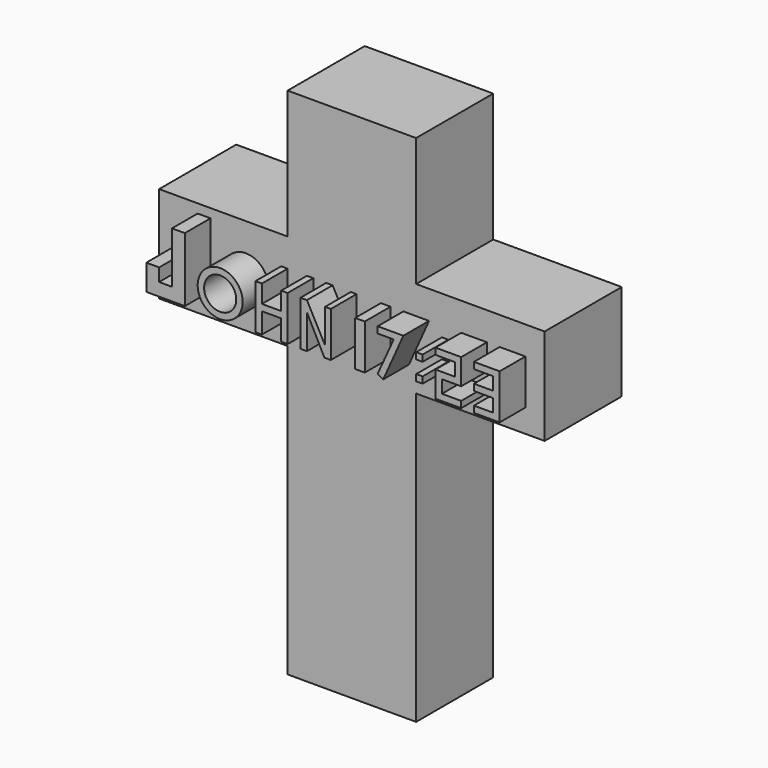
from build123d import *

# Parameters (mm, degrees)
F0_W      = 25.4
F0_H      = 19.05
F1_DEPTH  = 19.05
F4_DEPTH  = 6.35
F5_R      = 4.445
F5_R_2    = 3.175
F6_DEPTH  = 6.35
F7_W      = 3.81
F7_H      = 1.27
F8_DEPTH  = 6.35
F10_DEPTH = 6.35
F11_W     = 1.905
F11_H     = 8.89
F12_DEPTH = 6.35
F14_DEPTH = 6.35
F15_W     = 1.27
F15_H     = 1.27
F16_DEPTH = 6.35
F18_DEPTH = 6.35
F19_W     = 3.81
F19_H     = 1.27
F20_DEPTH = 6.35


with BuildPart() as f1:
    # F0 (on Front) → F1 (new body)
    with BuildSketch(Plane.XZ):
        Polygon((-25.4, 0), (0, 0), (0, 57.15), (0, 76.2), (0, 101.6), (-25.4, 101.6), (-25.4, 76.2), (-25.4, 57.15), align=None)
        with Locations((12.7, 66.675)):
            Rectangle(F0_W, F0_H)
        with Locations((-38.1, 66.675)):
            Rectangle(F0_W, F0_H)
    extrude(amount=F1_DEPTH)

    # F3 (on offset) → F4 (join)
    with BuildSketch(Plane.XZ.offset(19.05)):
        Polygon((-45.72, 66.802), (-48.26, 66.802), (-48.26, 61.722), (-40.64, 61.722), (-40.64, 74.422), (-43.18, 74.422), (-43.18, 64.262), (-45.72, 64.262), align=None)
    extrude(amount=F4_DEPTH)

    # F5 (on offset) → F6 (join)
    with BuildSketch(Plane.XZ.offset(19.05)):
        with Locations((-33.655, 66.167)):
            Circle(F5_R)
        with Locations((-33.655, 66.167)):
            Circle(F5_R_2, mode=Mode.SUBTRACT)
    extrude(amount=F6_DEPTH)

    # F7 (on offset) → F8 (join)
    with BuildSketch(Plane.XZ.offset(19.05)):
        Polygon((-25.4, 70.612), (-26.67, 70.612), (-26.67, 61.722), (-25.4, 61.722), (-25.4, 65.786055), (-25.4, 67.056055), align=None)
        with Locations((-23.495, 66.421055)):
            Rectangle(F7_W, F7_H)
        Polygon((-21.59, 70.612), (-21.59, 67.056055), (-21.59, 65.786055), (-21.59, 61.722), (-20.32, 61.722), (-20.32, 70.612), align=None)
    extrude(amount=F8_DEPTH)

    # F9 (on offset) → F10 (join)
    with BuildSketch(Plane.XZ.offset(19.05)):
        Polygon((-17.78, 70.612), (-17.78, 61.722), (-16.51, 61.722), (-16.51, 68.510335), (-16.51, 70.612), align=None)
        Polygon((-12.917591, 63.891956), (-16.51, 70.612), (-16.51, 68.510335), (-13.048367, 61.722), (-12.917591, 61.722), align=None)
        Polygon((-12.917591, 70.612), (-12.917591, 63.891956), (-12.917591, 61.722), (-11.778367, 61.722), (-11.778367, 70.612), align=None)
    extrude(amount=F10_DEPTH)

    # F11 (on offset) → F12 (join)
    with BuildSketch(Plane.XZ.offset(19.05)):
        with Locations((-6.016459, 66.167)):
            Rectangle(F11_W, F11_H)
    extrude(amount=F12_DEPTH)

    # F13 (on offset) → F14 (join)
    with BuildSketch(Plane.XZ.offset(19.05)):
        Polygon((2.556041, 70.612), (-2.523959, 70.612), (-2.523959, 69.342), (0.651041, 69.342), (-2.523959, 62.344633), (-1.417059, 61.722), align=None)
    extrude(amount=F14_DEPTH)

    # F15 (on offset) → F16 (join)
    with BuildSketch(Plane.XZ.offset(19.05)):
        with Locations((5.731041, 67.945)):
            Rectangle(F15_W, F15_H)
        with Locations((5.731041, 64.135)):
            Rectangle(F15_W, F15_H)
    extrude(amount=F16_DEPTH)

    # F17 (on offset) → F18 (join)
    with BuildSketch(Plane.XZ.offset(19.05)):
        Polygon((13.986041, 70.612), (8.906041, 70.612), (8.906041, 69.342), (12.716041, 69.342), (12.716041, 66.802), (13.986041, 66.802), align=None)
        Polygon((13.986041, 65.532), (13.986041, 66.802), (12.716041, 66.802), (8.906041, 66.802), (8.906041, 61.722), (13.986041, 61.722), (13.986041, 62.992), (10.176041, 62.992), (10.176041, 65.532), align=None)
    extrude(amount=F18_DEPTH)

    # F19 (on offset) → F20 (join)
    with BuildSketch(Plane.XZ.offset(19.05)):
        with Locations((18.415, 69.977)):
            Rectangle(F19_W, F19_H)
        Polygon((20.32, 70.612), (20.32, 69.342), (20.32, 66.802), (20.32, 65.532), (20.32, 62.992), (20.32, 61.722), (21.59, 61.722), (21.59, 70.612), align=None)
        with Locations((18.415, 66.167)):
            Rectangle(F19_W, F19_H)
        with Locations((18.415, 62.357)):
            Rectangle(F19_W, F19_H)
    extrude(amount=F20_DEPTH)


solid = f1.part
